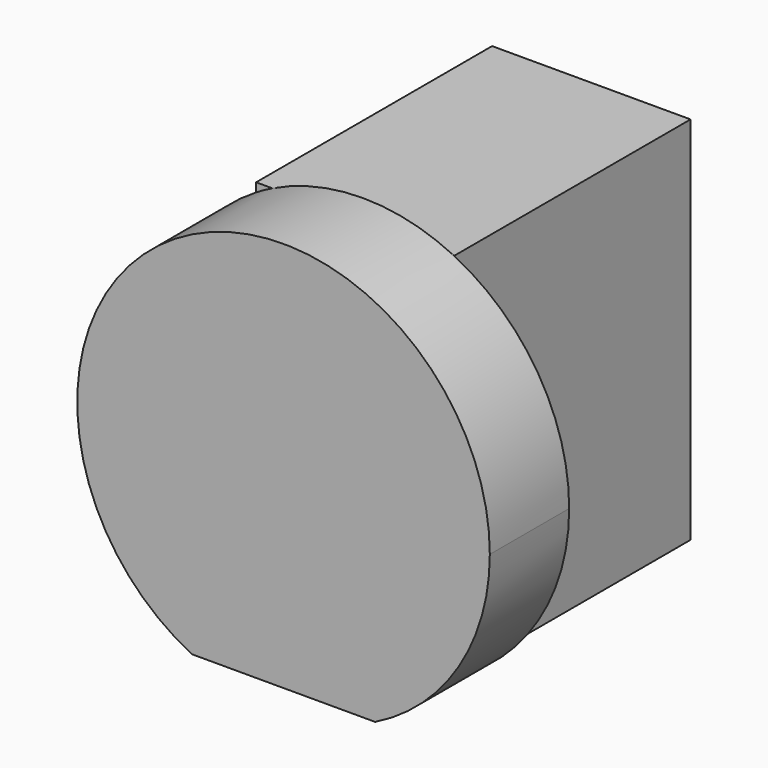
from build123d import *

# Parameters (mm, degrees)
F1_DEPTH = 25.4
F2_W     = 75.5217149854
F2_H     = 94.7771389037
F3_DEPTH = 50.8


with BuildPart() as f1:
    # F0 (on Front) → F1 (new body)
    with BuildSketch(Plane.XZ):
        with BuildLine():
            ThreePointArc((29.3555872232, 47.3179072142), (-51.2999016475, 92.1962772504), (-46.9155609608, 0))
            Line((-46.9155609608, 0), (0, 0))
            ThreePointArc((0, 0), (21.4205895558, 19.475786047), (29.3555872232, 47.3179072142))
        make_face()
    extrude(amount=F1_DEPTH)

    # F2 (on Right) → F3 (join)
    with BuildSketch(Plane.YZ):
        with Locations((37.7608574927, 47.3885694519)):
            Rectangle(F2_W, F2_H)
    extrude(amount=-F3_DEPTH)


solid = f1.part
